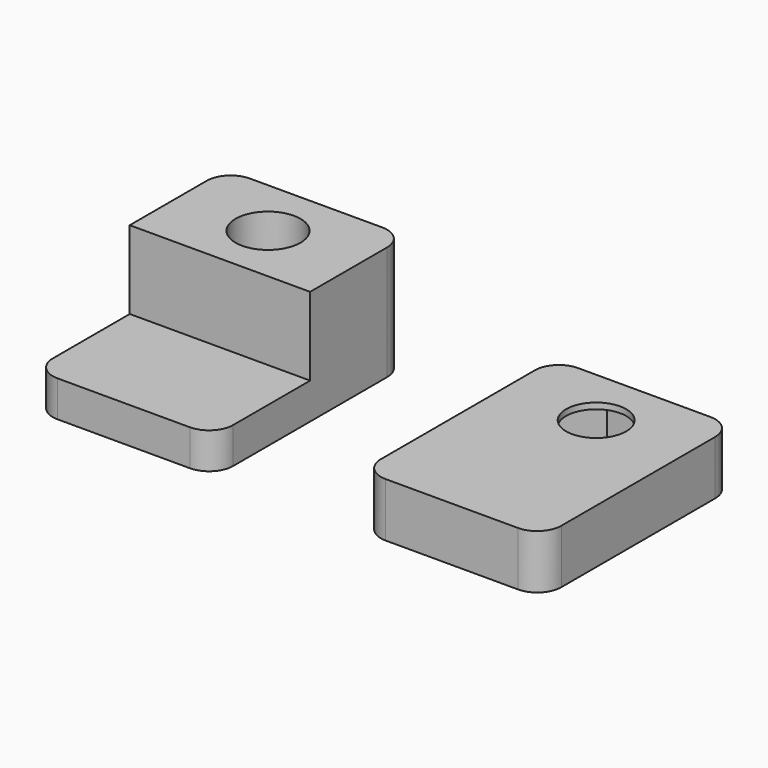
from build123d import *

# Parameters (mm, degrees)
F0_W      = 15
F0_H      = 20
F1_DEPTH  = 3
F2_W      = 15
F2_H      = 10
F3_DEPTH  = 6.5
F4_R      = 2.7
F5_DEPTH  = 25
F6_R      = 2
F7_W      = 15
F7_H      = 20
F8_DEPTH  = 4.5
F9_R      = 2.5
F10_DEPTH = 25
F11_R     = 2
F12_R     = 2.7
F13_DEPTH = 4
F15_DEPTH = 4


with BuildPart() as f1:
    # F0 (on Top) → F1 (new body)
    with BuildSketch(Plane.XY):
        with Locations((-37.801008, 0)):
            Rectangle(F0_W, F0_H)
    extrude(amount=F1_DEPTH)

    # F2 (on face) → F3 (join)
    with BuildSketch(Plane.XY.offset(3)):
        with Locations((-37.801008, 5)):
            Rectangle(F2_W, F2_H)
    extrude(amount=F3_DEPTH)

    # F4 (on face) → F5 (cut)
    with BuildSketch(Plane.XY.offset(9.5)):
        with Locations((-37.801008, 5)):
            Circle(F4_R)
    extrude(amount=-F5_DEPTH, mode=Mode.SUBTRACT)

    # F6
    f6_edges = [f1.edges().sort_by_distance(p)[0] for p in [
        (-45.301008, -10, 1.5),
        (-30.301008, -10, 1.5),
        (-30.301008, 10, 4.75),
        (-45.301008, 10, 4.75),
    ]]
    fillet(f6_edges, radius=F6_R)

    # F12 (on face) → F13 (cut)
    with BuildSketch(Plane(origin=(0, 0, 0), x_dir=(1, 0, 0), z_dir=(0, 0, -1))):
        Polygon((-42.419643, -5.039323), (-40.076271, -9.019516), (-35.457636, -8.980194), (-33.182373, -4.960677), (-35.525745, -0.980484), (-40.14438, -1.019806), align=None)
        with Locations((-37.801008, -5)):
            Circle(F12_R, mode=Mode.SUBTRACT)
    extrude(amount=-F13_DEPTH, mode=Mode.SUBTRACT)


with BuildPart() as f8:
    # F7 (on Top) → F8 (new body)
    with BuildSketch(Plane.XY):
        with Locations((-10.513142, 0)):
            Rectangle(F7_W, F7_H)
    extrude(amount=F8_DEPTH)

    # F9 (on face) → F10 (cut)
    with BuildSketch(Plane.XY.offset(4.5)):
        with Locations((-10.513142, 5)):
            Circle(F9_R)
    extrude(amount=-F10_DEPTH, mode=Mode.SUBTRACT)

    # F11
    f11_edges = [f8.edges().sort_by_distance(p)[0] for p in [
        (-18.013142, 10, 2.25),
        (-18.013142, -10, 2.25),
        (-3.013142, -10, 2.25),
        (-3.013142, 10, 2.25),
    ]]
    fillet(f11_edges, radius=F11_R)

    # F14 (on Top) → F15 (cut)
    with BuildSketch(Plane.XY):
        Polygon((-12.822543, 1), (-8.203741, 1), (-5.89434, 5), (-8.203741, 9), (-12.822543, 9), (-15.131944, 5), align=None)
    extrude(amount=F15_DEPTH, mode=Mode.SUBTRACT)


solid = Compound([f1.part, f8.part])
